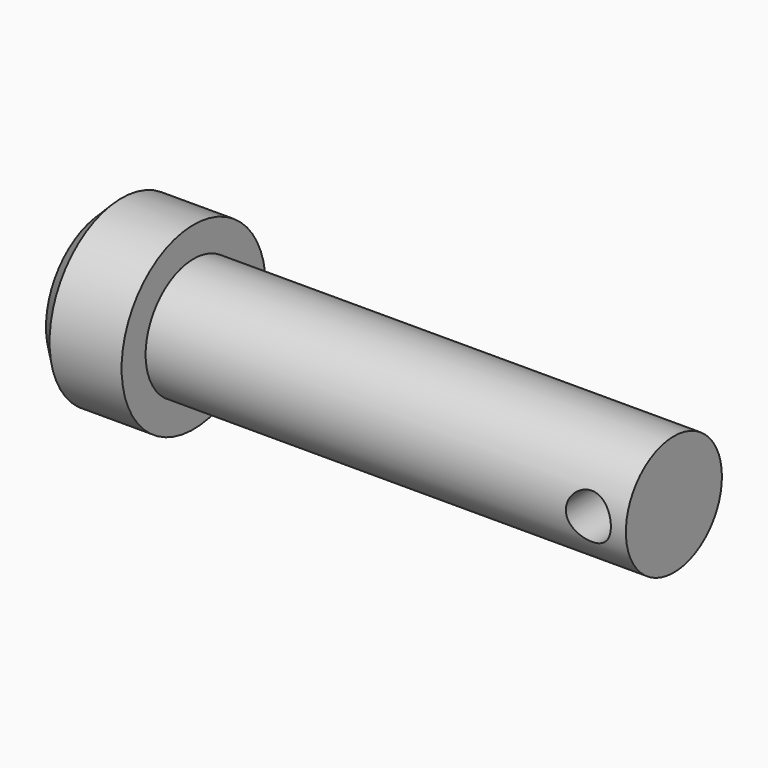
from build123d import *

# Parameters (mm, degrees)
F0_R     = 4
F1_DEPTH = 38
F0_R_2   = 6
F2_DEPTH = 6
F3_SIZE  = 1.2
F4_R     = 1.5
F5_DEPTH = 4


with BuildPart() as f1:
    # F0 (on Right) → F1 (new body)
    with BuildSketch(Plane.YZ):
        Circle(F0_R)
    extrude(amount=F1_DEPTH)

    # F0 (on Right) → F2 (join)
    with BuildSketch(Plane.YZ):
        Circle(F0_R_2)
        Circle(F0_R, mode=Mode.SUBTRACT)
    extrude(amount=F2_DEPTH)

    # F3
    f3_edges = [f1.edges().sort_by_distance(p)[0] for p in [
        (0, -6, 0),
    ]]
    chamfer(f3_edges, length=F3_SIZE)

    # F4 (on Front) → F5 (cut, symmetric)
    with BuildSketch(Plane.XZ):
        with Locations((35.5, 0)):
            Circle(F4_R)
    extrude(amount=F5_DEPTH, both=True, mode=Mode.SUBTRACT)


solid = f1.part
